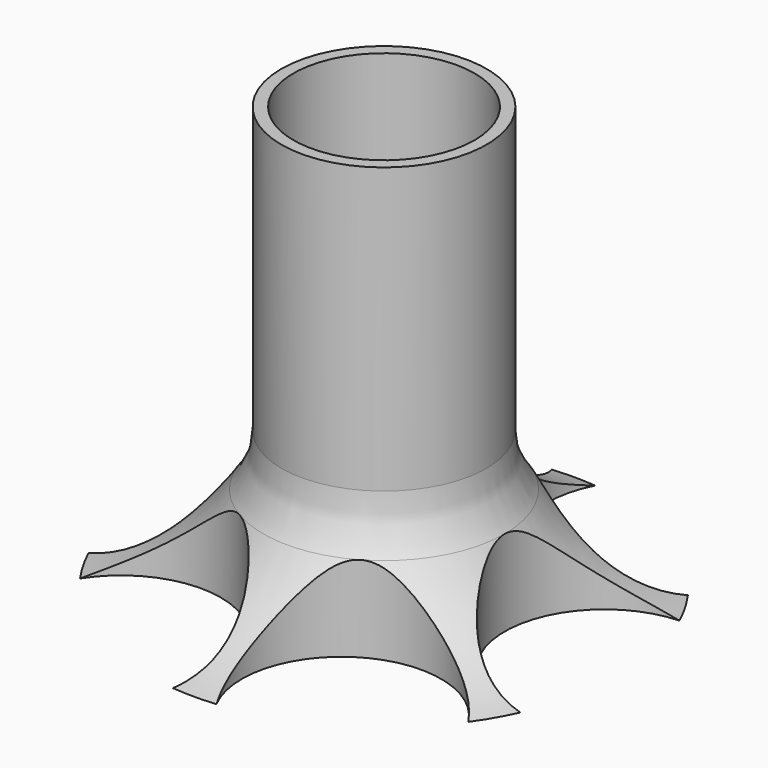
from build123d import *

# Parameters (mm, degrees)
F0_R     = 50.8
F2_DEPTH = 177.8
F3_R     = 38.1
F4_DEPTH = 177.801
F1_R     = 41.91
F7_DEPTH = 177.801


with BuildPart() as f2:
    # F0 (on Top) → F2 (new body)
    with BuildSketch(Plane.XY):
        Circle(F0_R)
    extrude(amount=F2_DEPTH)

    # F3 (on face) → F4 (cut, through all)
    with BuildSketch(Plane.XY.offset(177.8)):
        Circle(F3_R)
    extrude(amount=-F4_DEPTH, mode=Mode.SUBTRACT)

    # F5 (on Front) → F6 (revolve)
    with BuildSketch(Plane.XZ):
        with BuildLine():
            ThreePointArc((100.0125, 0), (70.9357679727, 13.9783849732), (49.5876034492, 38.167379647))
            Line((49.5876034492, 38.167379647), (49.5876034492, 0))
            Line((49.5876034492, 0), (100.0125, 0))
        make_face()
    revolve(axis=Axis((0, 0, 0), (0, 0, -1)))

    # F1 (on Top) → F7 (cut, through all)
    with BuildSketch(Plane.XY):
        with Locations((-92.71, 0)):
            Circle(F1_R)
        with Locations((-46.355, -80.2892151849)):
            Circle(F1_R)
        with Locations((46.355, -80.2892151849)):
            Circle(F1_R)
        with Locations((92.71, 0)):
            Circle(F1_R)
        with Locations((46.355, 80.2892151849)):
            Circle(F1_R)
        with Locations((-46.355, 80.2892151849)):
            Circle(F1_R)
    extrude(amount=F7_DEPTH, mode=Mode.SUBTRACT)

    # F8 (on Front) → F9 (revolve, cut)
    with BuildSketch(Plane.XZ):
        with BuildLine():
            Line((-50.8, 177.8), (-50.8, 36.134957756))
            ThreePointArc((-50.8, 36.134957756), (-45.1399977249, 46.3755737202), (-43.18, 57.9109215693))
            Line((-43.18, 57.9109215693), (-43.18, 177.8))
            Line((-43.18, 177.8), (-50.8, 177.8))
        make_face()
    revolve(axis=Axis((0, 0, 177.8), (0, 0, -1)), mode=Mode.SUBTRACT)


solid = f2.part
